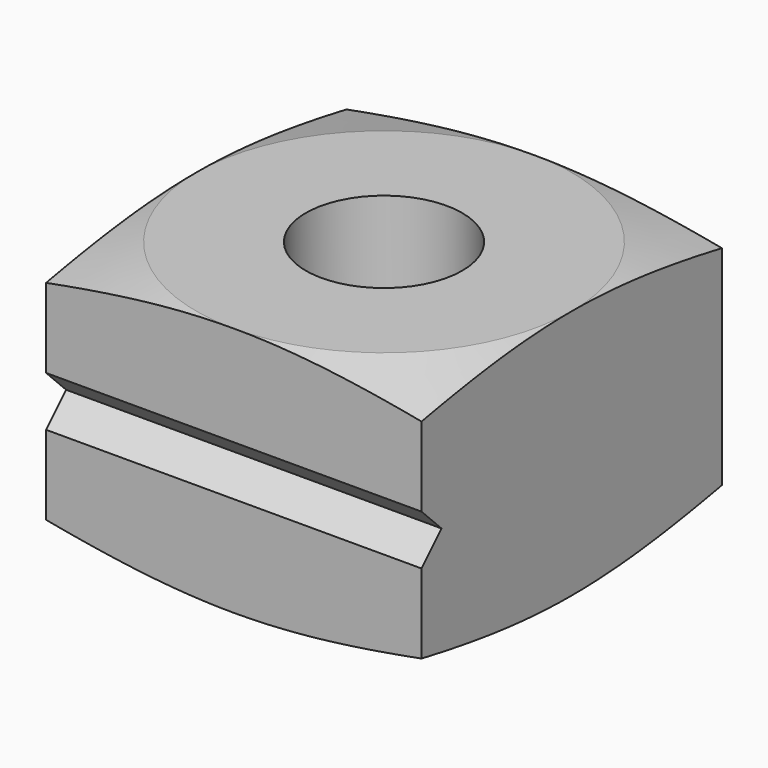
from build123d import *

# Parameters (mm, degrees)
F0_W     = 19.05
F0_H     = 19.05
F1_DEPTH = 12.7
F3_DEPTH = 19.05
F6_R     = 3.96875
F7_DEPTH = 19.05


with BuildPart() as f1:
    # F0 (on Top) → F1 (new body)
    with BuildSketch(Plane.XY):
        with Locations((9.525, 9.525)):
            Rectangle(F0_W, F0_H)
    extrude(amount=F1_DEPTH)

    # F2 (on face) → F3 (cut)
    with BuildSketch(Plane(origin=(0, 0, 0), x_dir=(0, -1, 0), z_dir=(-1, 0, 0))):
        Polygon((0, 7.62), (-1.27, 6.35), (0, 5.08), align=None)
    extrude(amount=-F3_DEPTH, mode=Mode.SUBTRACT)

    # F6 (on face) → F7 (cut)
    with BuildSketch(Plane(origin=(0, 0, 0), x_dir=(1, 0, 0), z_dir=(0, 0, -1))):
        with Locations((9.525, -9.525)):
            Circle(F6_R)
    extrude(amount=-F7_DEPTH, mode=Mode.SUBTRACT)

    # F8 (on mid) + F5 (on mid) → F9 (revolve, cut)
    with BuildSketch(Plane(origin=(9.525, 0, 0), x_dir=(0, -1, 0), z_dir=(-1, 0, 0))):
        Polygon((-32.2430354842, 9.1649367963), (-19.05, 12.7), (-32.2430354842, 16.2350632037), align=None)
    with BuildSketch(Plane(origin=(9.525, 0, 0), x_dir=(0, -1, 0), z_dir=(-1, 0, 0))):
        Polygon((8.4822997993, 2.2728253812), (0, 0), (8.4822997993, 0), align=None)
    revolve(axis=Axis((9.525, 9.525, 12.7), (0, 0, -1)), mode=Mode.SUBTRACT)


solid = f1.part
